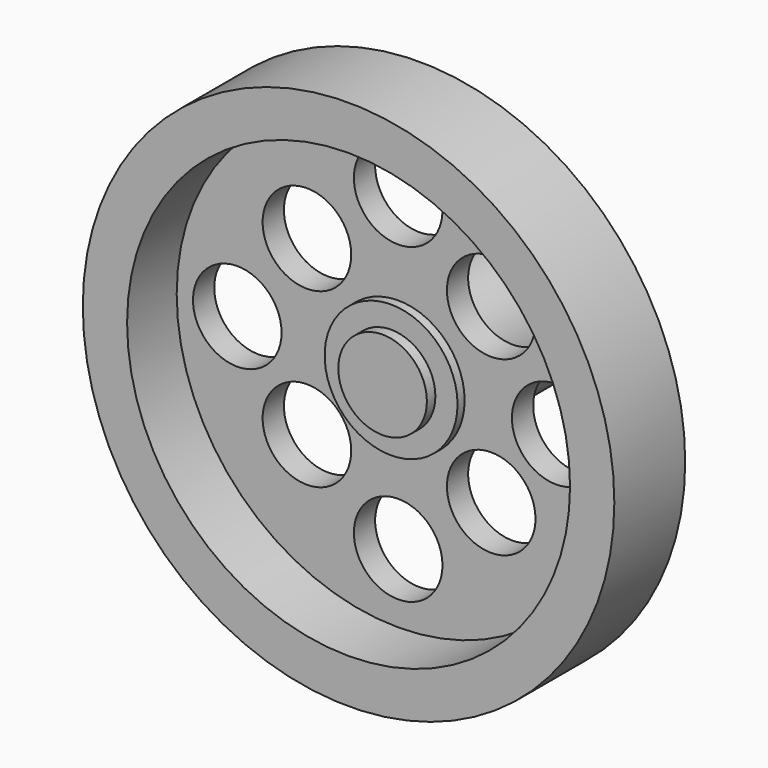
from build123d import *

# Parameters (mm, degrees)
F0_R       = 38.1
F1_DEPTH   = 12.7
F2_R       = 31.75
F3_DEPTH   = 45.466
F4_R       = 34.925
F5_DEPTH   = 3.81
F6_R       = 6.35
F7_DEPTH   = 38.354
F8_R       = 6.35
F9_DEPTH   = 26.924
F10_R      = 9.525
F11_DEPTH  = 5.08
F11_FACE_R = 9.525
F12_DEPTH  = 25.4
F13_R      = 6.35
F14_DEPTH  = 6.604


with BuildPart() as f1:
    # F0 (on Front) → F1 (new body)
    with BuildSketch(Plane.XZ):
        Circle(F0_R)
    extrude(amount=F1_DEPTH)

    # F2 (on Front) → F3 (cut)
    with BuildSketch(Plane.XZ):
        Circle(F2_R)
    extrude(amount=F3_DEPTH, mode=Mode.SUBTRACT)

    # F4 (on Front) → F5 (join)
    with BuildSketch(Plane.XZ):
        Circle(F4_R)
    extrude(amount=F5_DEPTH)

    # F6 (on Front) → F7 (cut)
    with BuildSketch(Plane.XZ):
        with Locations((-13.081, 13.081)):
            Circle(F6_R)
        with Locations((13.334999, 13.081)):
            Circle(F6_R)
        with Locations((13.334999, -11.659759)):
            Circle(F6_R)
        with Locations((-13.081, -11.659759)):
            Circle(F6_R)
    extrude(amount=F7_DEPTH, mode=Mode.SUBTRACT)

    # F8 (on Front) → F9 (cut)
    with BuildSketch(Plane.XZ):
        with Locations((0, 22.920826)):
            Circle(F8_R)
        with Locations((22.654116, 0)):
            Circle(F8_R)
        with Locations((0, -21.869805)):
            Circle(F8_R)
        with Locations((-23.065884, 0)):
            Circle(F8_R)
    extrude(amount=F9_DEPTH, mode=Mode.SUBTRACT)

    # F10 (on Front) → F11 (join)
    with BuildSketch(Plane.XZ):
        Circle(F10_R)
    extrude(amount=F11_DEPTH)

    # F11_face (on face) → F12 (join)
    with BuildSketch(Plane.XZ.offset(5.08)):
        Circle(F11_FACE_R)
    extrude(amount=-F12_DEPTH)

    # F13 (on Front) → F14 (join, symmetric)
    with BuildSketch(Plane.XZ):
        Circle(F13_R)
    extrude(amount=F14_DEPTH, both=True)


solid = f1.part
